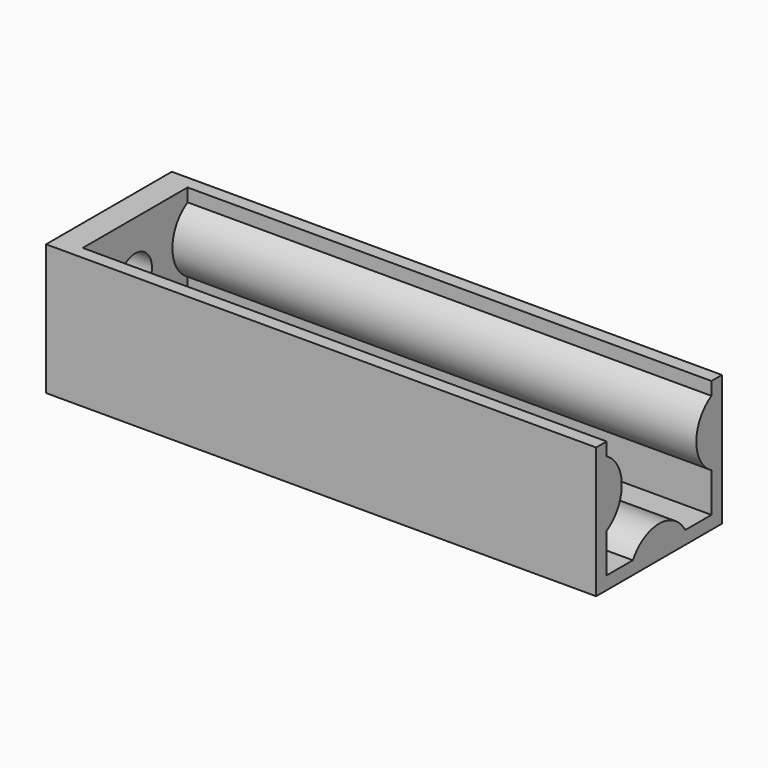
from build123d import *

# Parameters (mm, degrees)
PAD_DEPTH    = 40
SKETCH001_W  = 12
SKETCH001_H  = 10
SKETCH001_R  = 1.6
PAD001_DEPTH = 2


with BuildPart() as part:
    # Sketch → Pad (new body)
    with BuildSketch(Plane.YZ):
        with BuildLine():
            Line((-5, 8), (-5, 9))
            Line((-5, 9), (-6, 9))
            Line((-6, 9), (-6, -1))
            Line((-6, -1), (6, -1))
            Line((6, -1), (6, 9))
            Line((6, 9), (5, 9))
            Line((5, 9), (5, 8))
            ThreePointArc((5, 8), (3.556624, 5.5), (5, 3))
            Line((5, 3), (5, 0))
            Line((5, 0), (2.5, 0))
            ThreePointArc((2.5, 0), (0, 1.443376), (-2.5, 0))
            Line((-2.5, 0), (-5, 0))
            Line((-5, 0), (-5, 3))
            ThreePointArc((-5, 3), (-3.556624, 5.5), (-5, 8))
        make_face()
    extrude(amount=PAD_DEPTH)

    # Sketch001 (on Face15 of Pad) → Pad001 (join)
    with BuildSketch(Plane(origin=(0, 0, 0), x_dir=(0, 1, 0), z_dir=(-1, 0, 0))):
        with Locations((0, -4)):
            Rectangle(SKETCH001_W, SKETCH001_H)
        with Locations((0, -5)):
            Circle(SKETCH001_R, mode=Mode.SUBTRACT)
    extrude(amount=PAD001_DEPTH)


solid = part.part
